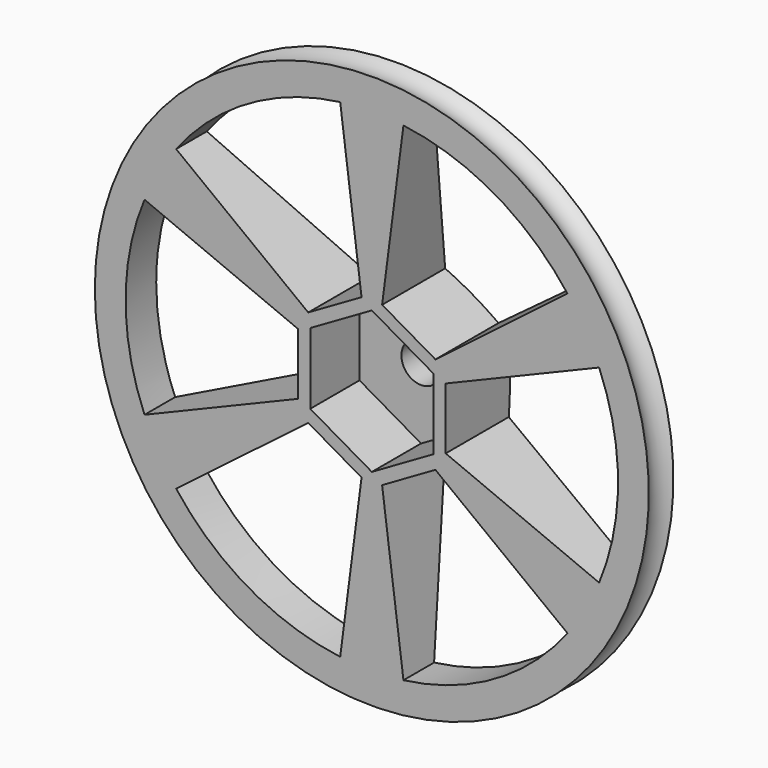
from build123d import *

# Parameters (mm, degrees)
POCKET_DEPTH    = 6.35
SKETCH002_R     = 2.032
POCKET001_DEPTH = 4.99999
POCKET002_DEPTH = 25.4


with BuildPart() as part:
    # Sketch → Revolution (revolve)
    with BuildSketch(Plane.XY):
        with BuildLine():
            Line((0, 0), (-28.575, 0))
            ThreePointArc((-28.575, 0), (-27.811412, 1.5875), (-28.575, 3.175))
            Line((-28.575, 3.175), (-2.54, 9.525))
            Line((0, 9.525), (-2.54, 9.525))
            Line((0, 3.175), (0, 9.525))
            Line((0, 3.175), (0, 0))
        make_face()
    revolve(axis=Axis((0, 0, 0), (0, 1, 0)))

    # Sketch001 → Pocket (cut)
    with BuildSketch(Plane.XZ):
        Polygon((0, 7.332348), (-6.35, 3.666174), (-6.35, -3.666174), (0, -7.332348), (6.35, -3.666174), (6.35, 3.666174), align=None)
    extrude(amount=-POCKET_DEPTH, mode=Mode.SUBTRACT)

    # Sketch002 → Pocket001 (cut)
    with BuildSketch(Plane(origin=(0, 9.525, 0), x_dir=(-1, 0, 0), z_dir=(0, 1, 0))):
        Circle(SKETCH002_R)
    extrude(amount=-POCKET001_DEPTH, mode=Mode.SUBTRACT)

    # Sketch003 → Pocket002 (cut)
    with BuildSketch(Plane.XZ):
        with BuildLine():
            Line((1.060369, 8.186614), (6.559631, 5.011614))
            Line((6.559631, 5.011614), (20.183479, 15.420349))
            ThreePointArc((20.183479, 15.420349), (12.7, 21.997045), (3.262675, 25.18958))
            Line((3.262675, 25.18958), (1.060369, 8.186614))
        make_face()
        with BuildLine():
            Line((7.62, 3.175), (7.62, -3.175))
            Line((7.62, -3.175), (23.446154, -9.76923))
            ThreePointArc((23.446154, -9.76923), (25.4, 0), (23.446154, 9.76923))
            Line((23.446154, 9.76923), (7.62, 3.175))
        make_face()
        with BuildLine():
            Line((6.559631, -5.011614), (1.060369, -8.186614))
            Line((1.060369, -8.186614), (3.262675, -25.18958))
            ThreePointArc((3.262675, -25.18958), (12.7, -21.997045), (20.183479, -15.42035))
            Line((20.183479, -15.42035), (6.559631, -5.011614))
        make_face()
        with BuildLine():
            Line((-6.559631, -5.011614), (-1.060369, -8.186614))
            Line((-1.060369, -8.186614), (-3.262625, -25.189587))
            ThreePointArc((-20.183449, -15.420389), (-12.699957, -21.99707), (-3.262625, -25.189587))
            Line((-20.183449, -15.420389), (-6.559631, -5.011614))
        make_face()
        with BuildLine():
            Line((-7.62, 3.175), (-7.62, -3.175))
            Line((-7.62, -3.175), (-23.446154, -9.769231))
            ThreePointArc((-23.446154, 9.769231), (-25.4, 0), (-23.446154, -9.769231))
            Line((-23.446154, 9.769231), (-7.62, 3.175))
        make_face()
        with BuildLine():
            Line((-6.559631, 5.011614), (-1.060369, 8.186614))
            Line((-1.060369, 8.186614), (-3.262676, 25.18958))
            ThreePointArc((-3.262676, 25.18958), (-12.7, 21.997045), (-20.183479, 15.420349))
            Line((-20.183479, 15.420349), (-6.559631, 5.011614))
        make_face()
    extrude(amount=-POCKET002_DEPTH, mode=Mode.SUBTRACT)


solid = part.part
